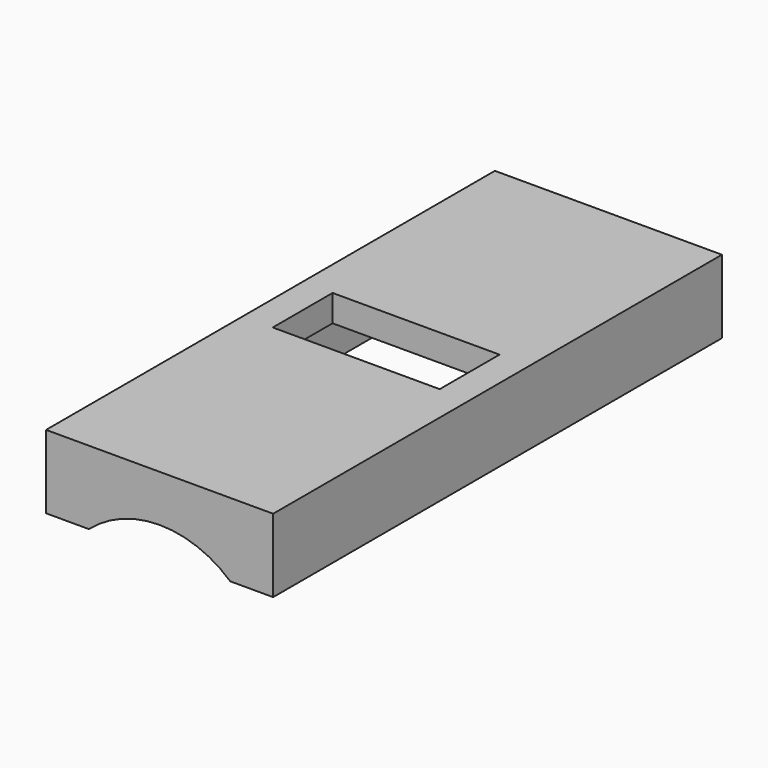
from build123d import *

# Parameters (mm, degrees)
CYLINDER004_R     = 8
CYLINDER004_DEPTH = 45
BOX007_W          = 15
BOX007_H          = 40
BOX007_DEPTH      = 5.5
BOX006_W          = 17
BOX006_H          = 42
BOX006_DEPTH      = 5.5
BOX002_W          = 12.5
BOX002_H          = 5.6
BOX002_DEPTH      = 10
BOX005_W          = 15
BOX005_H          = 40
BOX005_DEPTH      = 2


with BuildPart() as cylinder004:
    # Cylinder004 → Cylinder004 (new body)
    with BuildSketch(Plane(origin=(6, -19.5, -6), x_dir=(1, 0, 0), z_dir=(0, 1, 0))):
        Circle(CYLINDER004_R)
    extrude(amount=CYLINDER004_DEPTH)


with BuildPart() as cube007:
    # Box007 → Box007 (new body)
    with BuildSketch(Plane(origin=(-1.5, -17.3, 0), x_dir=(1, 0, 0), z_dir=(0, 0, 1))):
        with Locations((7.5, 20)):
            Rectangle(BOX007_W, BOX007_H)
    extrude(amount=BOX007_DEPTH)


with BuildPart() as cut008:
    # Box006 → Box006 (new body)
    with BuildSketch(Plane(origin=(-2.5, -18.3, 0), x_dir=(1, 0, 0), z_dir=(0, 0, 1))):
        with Locations((8.5, 21)):
            Rectangle(BOX006_W, BOX006_H)
    extrude(amount=BOX006_DEPTH)

    # Cut008: cut Cube007
    add(cube007.part, mode=Mode.SUBTRACT)


with BuildPart() as cube002:
    # Box002 → Box002 (new body)
    with BuildSketch(Plane(origin=(-0.25, 0.1, 0), x_dir=(1, 0, 0), z_dir=(0, 0, 1))):
        with Locations((6.25, 2.8)):
            Rectangle(BOX002_W, BOX002_H)
    extrude(amount=BOX002_DEPTH)


with BuildPart() as obj1:
    # Box005 → Box005 (new body)
    with BuildSketch(Plane(origin=(-1.5, -17.3, 0), x_dir=(1, 0, 0), z_dir=(0, 0, 1))):
        with Locations((7.5, 20)):
            Rectangle(BOX005_W, BOX005_H)
    extrude(amount=BOX005_DEPTH)

    # Cut007: cut Cube002
    add(cube002.part, mode=Mode.SUBTRACT)


with BuildPart() as obj1_1:
    # Cut007 placement: moved
    add(obj1.part.moved(Location((0, 0, 3.5))))

    # Fusion003: union Cut008
    add(cut008.part)

    # Cut015: cut Cylinder004
    add(cylinder004.part, mode=Mode.SUBTRACT)


solid = obj1_1.part
